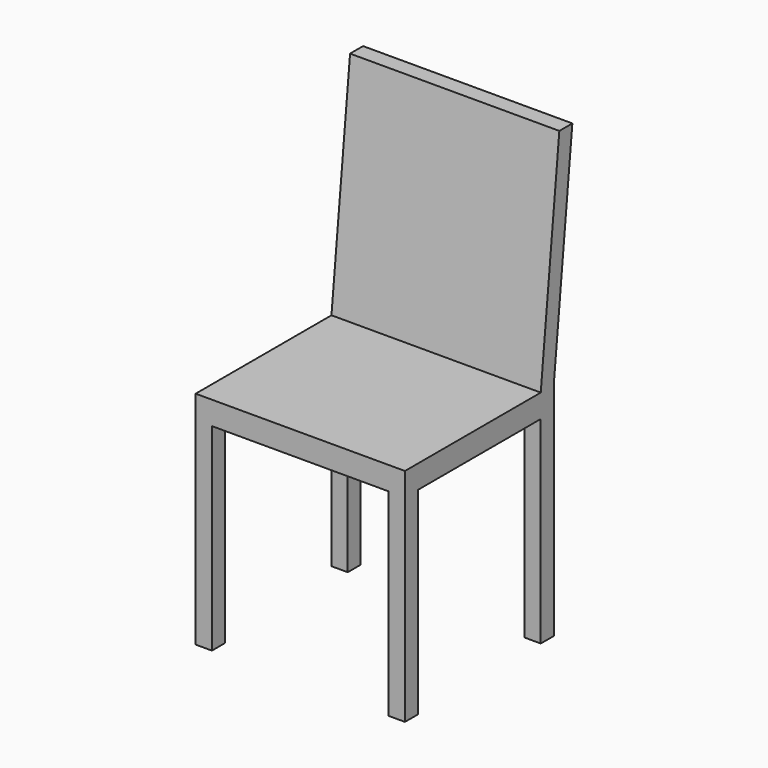
from build123d import *

# Parameters (mm, degrees)
F0_W     = 450
F0_H     = 450
F1_DEPTH = 950
F2_W     = 50
F2_H     = 50
F2_W_2   = 330
F2_H_2   = 425
F3_DEPTH = 450.001
F4_W     = 380
F4_H     = 425
F5_DEPTH = 450.001


with BuildPart() as f1:
    # F0 (on Top) → F1 (new body)
    with BuildSketch(Plane.XY):
        Rectangle(F0_W, F0_H)
    extrude(amount=F1_DEPTH)

    # F2 (on face) → F3 (cut, through all)
    with BuildSketch(Plane.YZ.offset(225)):
        with Locations((200, 450)):
            Rectangle(F2_W, F2_H)
        Polygon((-225, 950), (-225, 475), (140, 475), (190, 950), align=None)
        Polygon((225, 950), (175, 475), (225, 475), align=None)
        with Locations((-25, 212.5)):
            Rectangle(F2_W_2, F2_H_2)
        with Locations((200, 212.5)):
            Rectangle(F2_W, F2_H_2)
    extrude(amount=-F3_DEPTH, mode=Mode.SUBTRACT)

    # F4 (on face) → F5 (cut, through all)
    with BuildSketch(Plane.XZ.offset(225)):
        with Locations((0, 212.5)):
            Rectangle(F4_W, F4_H)
    extrude(amount=-F5_DEPTH, mode=Mode.SUBTRACT)


solid = f1.part
